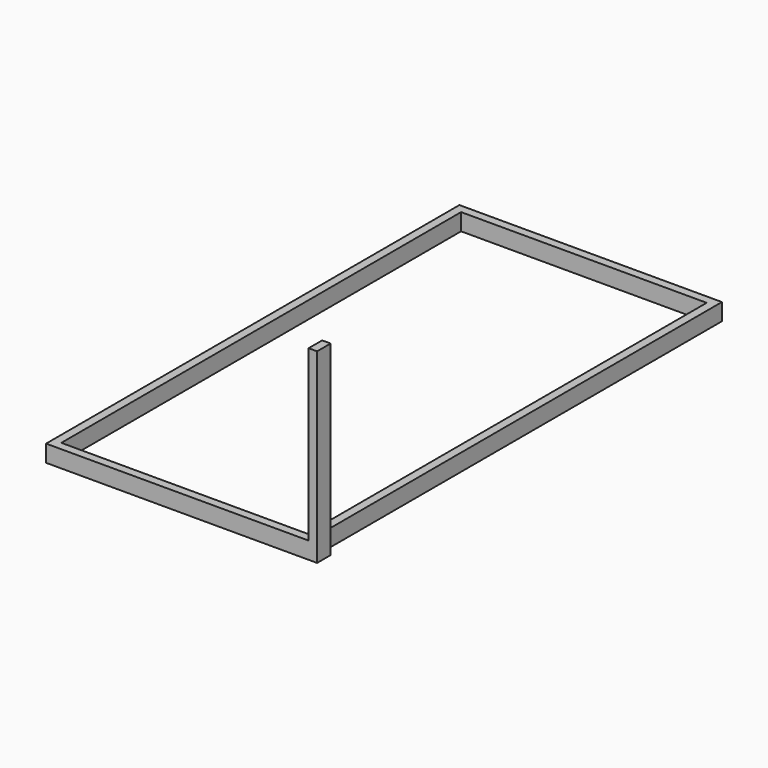
from build123d import *

# Parameters (mm, degrees)
F0_W      = 50.8
F0_H      = 101.6
F1_DEPTH  = 3048
F2_W      = 50.8
F2_H      = 101.6
F3_DEPTH  = 1524
F4_W      = 50.8
F4_H      = 101.6
F5_DEPTH  = 3048
F6_W      = 50.8
F6_H      = 101.6
F7_DEPTH  = 1524
F8_W      = 101.6
F8_H      = 101.6
F9_DEPTH  = 50.8
F10_W     = 50.8
F10_H     = 101.6
F11_DEPTH = 1016


with BuildPart() as f1:
    # F0 (on Front) → F1 (new body)
    with BuildSketch(Plane.XZ):
        with Locations((-435.003594, 50.8)):
            Rectangle(F0_W, F0_H)
    extrude(amount=F1_DEPTH)

    # F2 (on face) → F3 (join)
    with BuildSketch(Plane.YZ.offset(-409.603594)):
        with Locations((-3022.6, 50.8)):
            Rectangle(F2_W, F2_H)
    extrude(amount=F3_DEPTH)

    # F4 (on face) → F5 (join)
    with BuildSketch(Plane(origin=(0, -2997.2, 0), x_dir=(-1, 0, 0), z_dir=(0, 1, 0))):
        with Locations((-1088.996406, 50.8)):
            Rectangle(F4_W, F4_H)
    extrude(amount=F5_DEPTH)

    # F6 (on face) → F7 (join)
    with BuildSketch(Plane(origin=(1063.596406, 0, 0), x_dir=(0, -1, 0), z_dir=(-1, 0, 0))):
        with Locations((-25.4, 50.8)):
            Rectangle(F6_W, F6_H)
    extrude(amount=F7_DEPTH)

    # F8 (on face) → F9 (join)
    with BuildSketch(Plane.YZ.offset(1114.396406)):
        with Locations((-2997.2, 50.8)):
            Rectangle(F8_W, F8_H)
    extrude(amount=F9_DEPTH)

    # F10 (on face) → F11 (join)
    with BuildSketch(Plane.XY.offset(101.6)):
        with Locations((1139.796406, -2997.2)):
            Rectangle(F10_W, F10_H)
    extrude(amount=F11_DEPTH)


solid = f1.part
